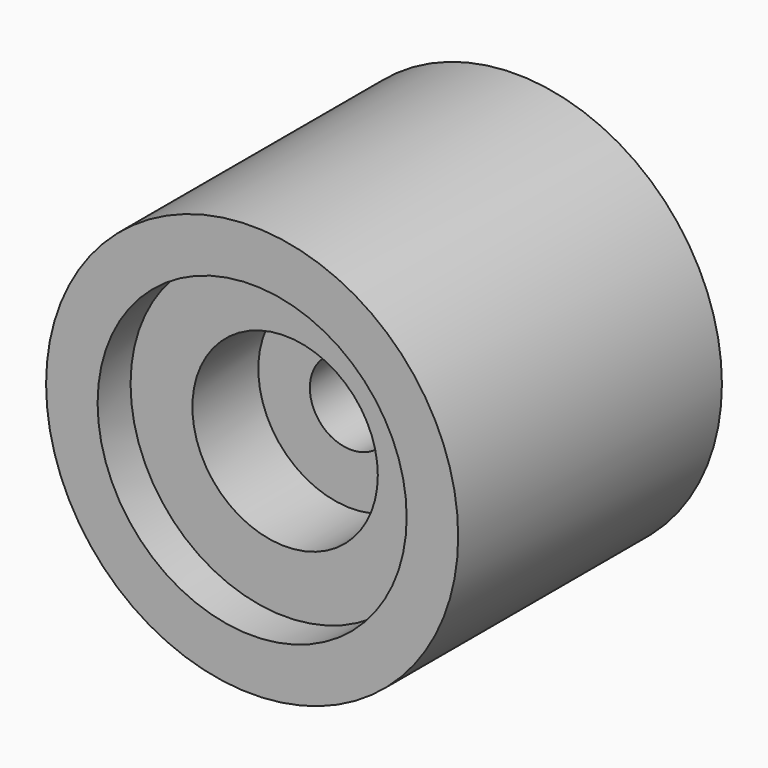
from build123d import *

# Parameters (mm, degrees)
F0_R      = 50
F1_DEPTH  = 40
F2_R      = 10
F3_DEPTH  = 80.001
F4_R      = 37.5
F5_DEPTH  = 10
F6_R      = 22.5
F7_DEPTH  = 20
F8_R      = 37.5
F9_DEPTH  = 10
F10_R     = 22.5
F11_DEPTH = 20


with BuildPart() as f1:
    # F0 (on Front) → F1 (new body, symmetric)
    with BuildSketch(Plane.XZ):
        Circle(F0_R)
    extrude(amount=F1_DEPTH, both=True)

    # F2 (on face) → F3 (cut, through all)
    with BuildSketch(Plane.XZ.offset(40)):
        Circle(F2_R)
    extrude(amount=-F3_DEPTH, mode=Mode.SUBTRACT)

    # F4 (on face) → F5 (cut)
    with BuildSketch(Plane(origin=(0, 40, 0), x_dir=(-1, 0, 0), z_dir=(0, 1, 0))):
        Circle(F4_R)
    extrude(amount=-F5_DEPTH, mode=Mode.SUBTRACT)

    # F6 (on face) → F7 (cut)
    with BuildSketch(Plane(origin=(0, 30, 0), x_dir=(-1, 0, 0), z_dir=(0, 1, 0))):
        Circle(F6_R)
    extrude(amount=-F7_DEPTH, mode=Mode.SUBTRACT)

    # F8 (on face) → F9 (cut)
    with BuildSketch(Plane.XZ.offset(40)):
        Circle(F8_R)
    extrude(amount=-F9_DEPTH, mode=Mode.SUBTRACT)

    # F10 (on face) → F11 (cut)
    with BuildSketch(Plane.XZ.offset(30)):
        Circle(F10_R)
    extrude(amount=-F11_DEPTH, mode=Mode.SUBTRACT)


solid = f1.part
